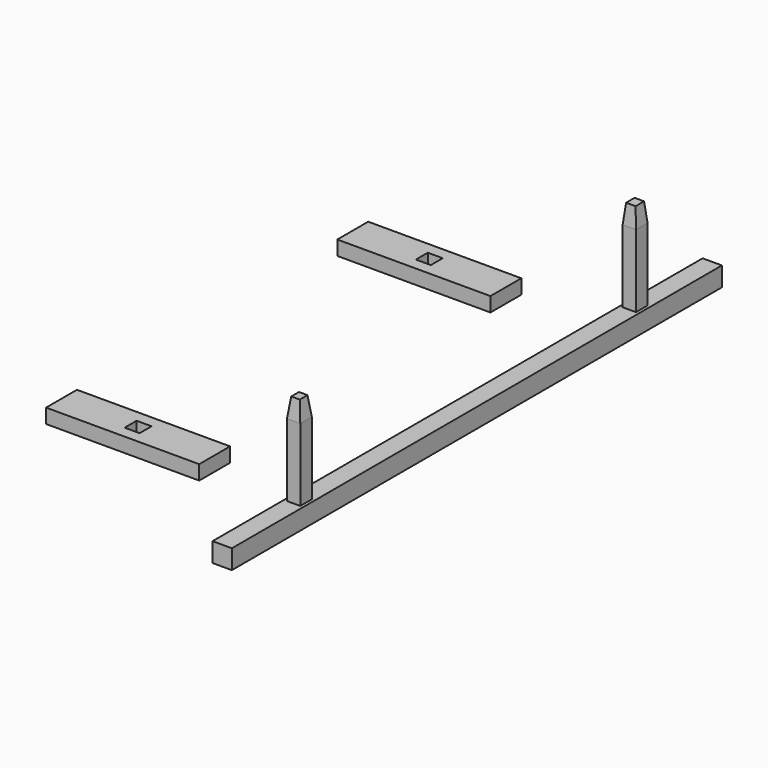
from build123d import *

# Parameters (mm, degrees)
F0_W     = 4
F0_H     = 4
F1_DEPTH = 127
F2_W     = 2.766012
F2_H     = 3
F3_DEPTH = 19.05
F4_SIZE2 = 0.4
F4_SIZE  = 4
F5_SIZE2 = 0.5
F5_SIZE  = 4
F6_W     = 31.75
F6_H     = 8
F6_W_2   = 3.1
F6_H_2   = 3.1
F7_DEPTH = 3


with BuildPart() as f1:
    # F0 (on Front) → F1 (new body)
    with BuildSketch(Plane.XZ):
        Rectangle(F0_W, F0_H)
    extrude(amount=-F1_DEPTH)

    # F2 (on face) → F3 (join)
    with BuildSketch(Plane.XY.offset(2)):
        with Locations((0, 107)):
            Rectangle(F2_W, F2_H)
        with Locations((0, 20)):
            Rectangle(F2_W, F2_H)
    extrude(amount=F3_DEPTH)

    # F4
    f4_edges = [f1.edges().sort_by_distance(p)[0] for p in [
        (1.383006, 107, 21.05),
        (0, 108.5, 21.05),
        (-1.383006, 107, 21.05),
        (0, 105.5, 21.05),
    ]]
    chamfer(f4_edges, length=F4_SIZE, length2=F4_SIZE2)

    # F5
    f5_edges = [f1.edges().sort_by_distance(p)[0] for p in [
        (0, 18.5, 21.05),
        (1.383006, 20, 21.05),
        (-1.383006, 20, 21.05),
        (0, 21.5, 21.05),
    ]]
    chamfer(f5_edges, length=F5_SIZE, length2=F5_SIZE2)


with BuildPart() as f7:
    # F6 (on Top) → F7 (new body)
    with BuildSketch(Plane.XY):
        with Locations((-35.2201, 97.695071)):
            Rectangle(F6_W, F6_H)
        with Locations((-35.2201, 97.695071)):
            Rectangle(F6_W_2, F6_H_2, mode=Mode.SUBTRACT)
        with Locations((-35.2201, 22.224929)):
            Rectangle(F6_W, F6_H)
        with Locations((-35.2201, 22.224929)):
            Rectangle(F6_W_2, F6_H_2, mode=Mode.SUBTRACT)
    extrude(amount=F7_DEPTH)


solid = Compound([f1.part, f7.part])
